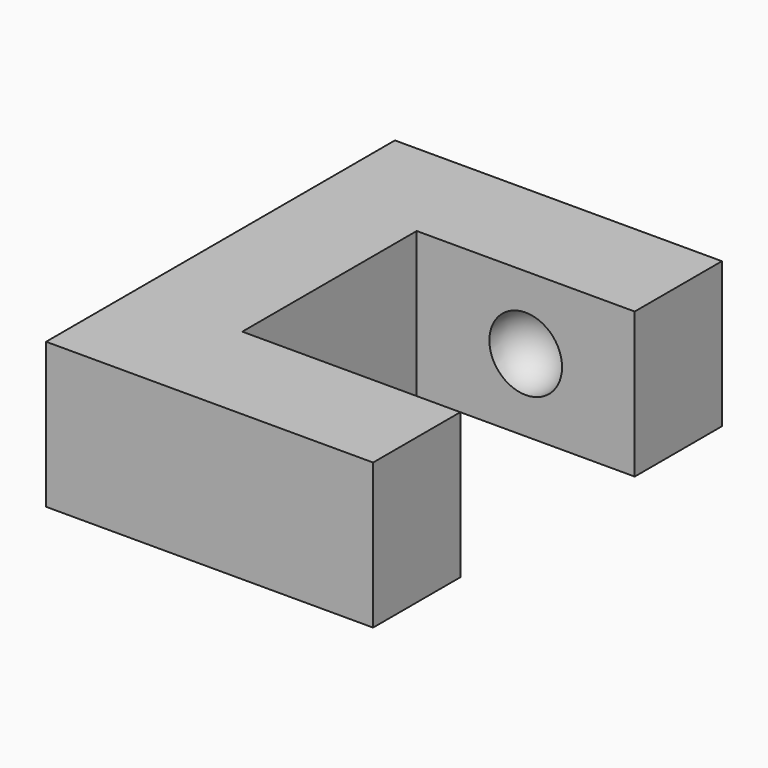
from build123d import *

# Parameters (mm, degrees)
F1_DEPTH = 10


with BuildPart() as f1:
    # F0 (on Top) → F1 (new body)
    with BuildSketch(Plane.XY):
        Polygon((22.5, 7.5), (22.5, 15), (0, 15), (0, 0), (7.5, 0), (7.5, 7.5), align=None)
    extrude(amount=F1_DEPTH)

    # F2 (on face) → F3 (revolve, cut)
    with BuildSketch(Plane.XZ.offset(-7.5)):
        with BuildLine():
            Line((15, 2.5), (15, 7.5))
            ThreePointArc((15, 7.5), (12.5, 5), (15, 2.5))
        make_face()
    revolve(axis=Axis((15, 7.5, 5), (0, 0, -1)), mode=Mode.SUBTRACT)

    # F4: F1 across plane


with BuildPart() as f1_1:
    add(f1.part)
    add(f1.part.mirror(Plane.XZ))


solid = f1_1.part
